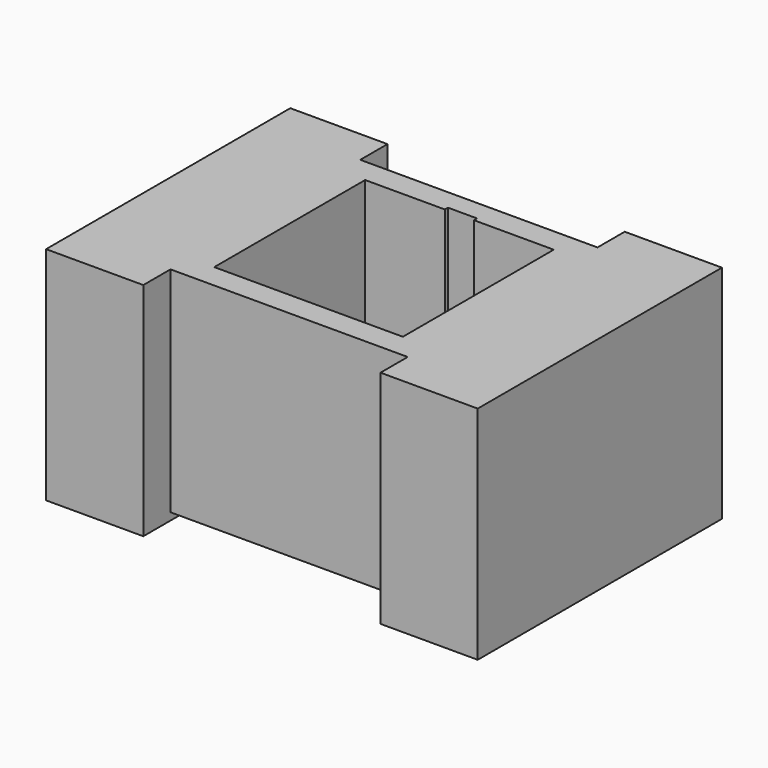
from build123d import *

# Parameters (mm, degrees)
CYLINDER010_R     = 1.6
CYLINDER010_DEPTH = 5.32
CYLINDER008_R     = 1.6
CYLINDER008_DEPTH = 5.32
CYLINDER007_R     = 3.6
CYLINDER007_DEPTH = 6
CYLINDER006_R     = 3.6
CYLINDER006_DEPTH = 6
CUBE004_W         = 10
CUBE004_H         = 31.4
CUBE004_DEPTH     = 22.75
CYLINDER004_R     = 1.6
CYLINDER004_DEPTH = 5.32
CYLINDER002_R     = 1.6
CYLINDER002_DEPTH = 5.32
CYLINDER001_R     = 3.6
CYLINDER001_DEPTH = 6
CYLINDER_R        = 3.6
CYLINDER_DEPTH    = 6
CUBE003_W         = 10
CUBE003_H         = 31.4
CUBE003_DEPTH     = 22.75
CUBE002_W         = 3
CUBE002_H         = 0.4
CUBE002_DEPTH     = 23
CUBE001_W         = 19.4
CUBE001_H         = 19.4
CUBE001_DEPTH     = 23
CUBE_W            = 24.4
CUBE_H            = 24.4
CUBE_DEPTH        = 22


with BuildPart() as cylinder011:
    # cylinder011 → cylinder011 (revolve)
    with BuildSketch(Plane.XZ):
        Polygon((0, 0), (1.8, 0), (1.6, 1), (0, 1), align=None)
    revolve(axis=Axis((0, 0, 0), (0, 0, 1)))


with BuildPart() as union006:
    # cylinder010 → cylinder010 (new body)
    with BuildSketch(Plane.XY.offset(-0.01)):
        Circle(CYLINDER010_R)
    extrude(amount=CYLINDER010_DEPTH)

    # union006: union cylinder011
    add(cylinder011.part)


with BuildPart() as union006_1:
    # union006 placement: moved
    add(union006.part.moved(Location((17.2, 7, 0))))


with BuildPart() as cylinder009:
    # cylinder009 → cylinder009 (revolve)
    with BuildSketch(Plane.XZ):
        Polygon((0, 0), (1.8, 0), (1.6, 1), (0, 1), align=None)
    revolve(axis=Axis((0, 0, 0), (0, 0, 1)))


with BuildPart() as group003:
    # cylinder008 → cylinder008 (new body)
    with BuildSketch(Plane.XY.offset(-0.01)):
        Circle(CYLINDER008_R)
    extrude(amount=CYLINDER008_DEPTH)

    # union005: union cylinder009
    add(cylinder009.part)


with BuildPart() as group003_1:
    # union005 placement: moved
    add(group003.part.moved(Location((17.2, -7, 0))))

    # Group003: union union006
    add(union006_1.part)


with BuildPart() as cylinder007:
    # cylinder007 → cylinder007 (new body)
    with BuildSketch(Plane(origin=(17.2, 7, 0), x_dir=(1, 0, 0), z_dir=(0, 0, 1))):
        Circle(CYLINDER007_R)
    extrude(amount=CYLINDER007_DEPTH)


with BuildPart() as group002:
    # cylinder006 → cylinder006 (new body)
    with BuildSketch(Plane(origin=(17.2, -7, 0), x_dir=(1, 0, 0), z_dir=(0, 0, 1))):
        Circle(CYLINDER006_R)
    extrude(amount=CYLINDER006_DEPTH)

    # Group002: union cylinder007
    add(cylinder007.part)


with BuildPart() as difference002:
    # cube004 → cube004 (new body)
    with BuildSketch(Plane(origin=(12.2, -15.7, 0), x_dir=(1, 0, 0), z_dir=(0, 0, 1))):
        with Locations((5, 15.7)):
            Rectangle(CUBE004_W, CUBE004_H)
    extrude(amount=CUBE004_DEPTH)

    # union004: union Group002
    add(group002.part)

    # difference002: cut Group003
    add(group003_1.part, mode=Mode.SUBTRACT)


with BuildPart() as cylinder005:
    # cylinder005 → cylinder005 (revolve)
    with BuildSketch(Plane.XZ):
        Polygon((0, 0), (1.8, 0), (1.6, 1), (0, 1), align=None)
    revolve(axis=Axis((0, 0, 0), (0, 0, 1)))


with BuildPart() as union003:
    # cylinder004 → cylinder004 (new body)
    with BuildSketch(Plane.XY.offset(-0.01)):
        Circle(CYLINDER004_R)
    extrude(amount=CYLINDER004_DEPTH)

    # union003: union cylinder005
    add(cylinder005.part)


with BuildPart() as union003_1:
    # union003 placement: moved
    add(union003.part.moved(Location((-17.2, 7, 0))))


with BuildPart() as cylinder003:
    # cylinder003 → cylinder003 (revolve)
    with BuildSketch(Plane.XZ):
        Polygon((0, 0), (1.8, 0), (1.6, 1), (0, 1), align=None)
    revolve(axis=Axis((0, 0, 0), (0, 0, 1)))


with BuildPart() as group001:
    # cylinder002 → cylinder002 (new body)
    with BuildSketch(Plane.XY.offset(-0.01)):
        Circle(CYLINDER002_R)
    extrude(amount=CYLINDER002_DEPTH)

    # union002: union cylinder003
    add(cylinder003.part)


with BuildPart() as group001_1:
    # union002 placement: moved
    add(group001.part.moved(Location((-17.2, -7, 0))))

    # Group001: union union003
    add(union003_1.part)


with BuildPart() as cylinder001:
    # cylinder001 → cylinder001 (new body)
    with BuildSketch(Plane(origin=(-17.2, 7, 0), x_dir=(1, 0, 0), z_dir=(0, 0, 1))):
        Circle(CYLINDER001_R)
    extrude(amount=CYLINDER001_DEPTH)


with BuildPart() as group:
    # cylinder → cylinder (new body)
    with BuildSketch(Plane(origin=(-17.2, -7, 0), x_dir=(1, 0, 0), z_dir=(0, 0, 1))):
        Circle(CYLINDER_R)
    extrude(amount=CYLINDER_DEPTH)

    # Group: union cylinder001
    add(cylinder001.part)


with BuildPart() as group004:
    # cube003 → cube003 (new body)
    with BuildSketch(Plane(origin=(-22.2, -15.7, 0), x_dir=(1, 0, 0), z_dir=(0, 0, 1))):
        with Locations((5, 15.7)):
            Rectangle(CUBE003_W, CUBE003_H)
    extrude(amount=CUBE003_DEPTH)

    # union001: union Group
    add(group.part)

    # difference001: cut Group001
    add(group001_1.part, mode=Mode.SUBTRACT)

    # Group004: union difference002
    add(difference002.part)


with BuildPart() as cube002:
    # cube002 → cube002 (new body)
    with BuildSketch(Plane(origin=(-1.5, 9.7, -11.5), x_dir=(1, 0, 0), z_dir=(0, 0, 1))):
        with Locations((1.5, 0.2)):
            Rectangle(CUBE002_W, CUBE002_H)
    extrude(amount=CUBE002_DEPTH)


with BuildPart() as union:
    # cube001 → cube001 (new body)
    with BuildSketch(Plane(origin=(-9.7, -9.7, -11.5), x_dir=(1, 0, 0), z_dir=(0, 0, 1))):
        with Locations((9.7, 9.7)):
            Rectangle(CUBE001_W, CUBE001_H)
    extrude(amount=CUBE001_DEPTH)

    # union: union cube002
    add(cube002.part)


with BuildPart() as union007:
    # cube → cube (new body)
    with BuildSketch(Plane(origin=(-12.2, -12.2, -11), x_dir=(1, 0, 0), z_dir=(0, 0, 1))):
        with Locations((12.2, 12.2)):
            Rectangle(CUBE_W, CUBE_H)
    extrude(amount=CUBE_DEPTH)

    # difference: cut union
    add(union.part, mode=Mode.SUBTRACT)


with BuildPart() as union007_1:
    # difference placement: moved
    add(union007.part.moved(Location((0, 0, 11.75))))

    # union007: union Group004
    add(group004.part)


solid = union007_1.part
